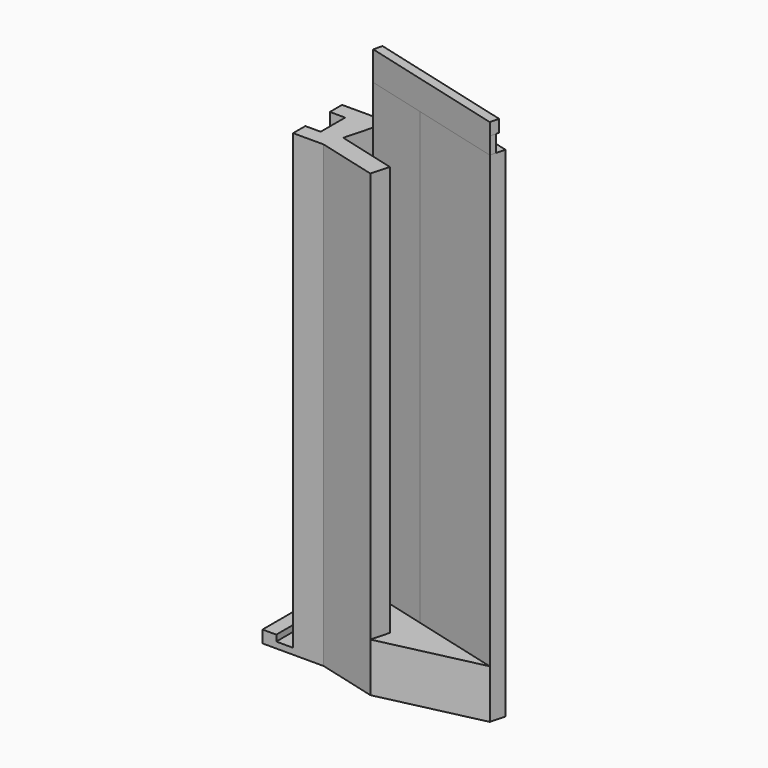
from build123d import *

# Parameters (mm, degrees)
F0_W      = 4.5
F0_H      = 20
F1_DEPTH  = 4
F2_W      = 5.5
F2_H      = 20
F3_DEPTH  = 2
F4_W      = 5
F4_H      = 5
F5_DEPTH  = 150
F6_W      = 5
F6_H      = 10
F7_DEPTH  = 10
F8_W      = 9.5
F8_H      = 16
F9_DEPTH  = 20
F10_W     = 15.690336
F10_H     = 16
F11_DEPTH = 30
F13_DEPTH = 16
F15_DEPTH = 5.5
F17_DEPTH = 4


with BuildPart() as f1:
    # F0 (on Top) → F1 (new body)
    with BuildSketch(Plane.XY):
        with Locations((2.25, 10)):
            Rectangle(F0_W, F0_H)
    extrude(amount=F1_DEPTH)

    # F2 (on Top) → F3 (join)
    with BuildSketch(Plane.XY):
        with Locations((7.25, 10)):
            Rectangle(F2_W, F2_H)
    extrude(amount=F3_DEPTH)

    # F4 (on Top) → F5 (join)
    with BuildSketch(Plane.XY):
        with Locations((12.5, 17.5)):
            Rectangle(F4_W, F4_H)
        Polygon((20, 20), (15, 20), (15, 15), (15, 5), (15, 0), (20, 0), align=None)
        Polygon((25.3, 20), (20, 20), (20, 0), align=None)
        with Locations((12.5, 2.5)):
            Rectangle(F4_W, F4_H)
    extrude(amount=F5_DEPTH)

    # F6 (on Top) → F7 (join)
    with BuildSketch(Plane.XY):
        with Locations((12.5, 10)):
            Rectangle(F6_W, F6_H)
    extrude(amount=F7_DEPTH)

    # F8 (on face) → F9 (join)
    with BuildSketch(Plane(origin=(18.687659, -4.95223, 0), x_dir=(0.256158, 0.966635, 0), z_dir=(0.966635, -0.256158, 0))):
        with Locations((16.063501, 8)):
            Rectangle(F8_W, F8_H)
        Polygon((20.813501, 16), (20.813501, 0), (25.813501, 0), (25.813501, 163), (20.813501, 163), align=None)
        Polygon((5.123165, 0), (11.313501, 0), (11.313501, 16), (11.313501, 150), (5.123165, 150), align=None)
    extrude(amount=F9_DEPTH)

    # F10 (on face) → F11 (join)
    with BuildSketch(Plane(origin=(38.020356, -10.075394, 0), x_dir=(0.256158, 0.966635, 0), z_dir=(0.966635, -0.256158, 0))):
        Polygon((25.813501, 0), (25.813501, 163), (20.813501, 163), (20.813501, 16), (20.813501, 0), align=None)
        with Locations((12.968333, 8)):
            Rectangle(F10_W, F10_H)
    extrude(amount=F11_DEPTH)

    # F12 (on face) → F13 (cut)
    with BuildSketch(Plane.XY.offset(16)):
        Polygon((72.350952, 2.358914), (39.332697, -5.123165), (68.331743, -12.807912), align=None)
    extrude(amount=-F13_DEPTH, mode=Mode.SUBTRACT)

    # F14 (on face) → F15 (join)
    with BuildSketch(Plane.XY.offset(163)):
        Polygon((24.531525, 17.100095), (24.019209, 15.166826), (72.350952, 2.358914), (72.863268, 4.292183), align=None)
    extrude(amount=F15_DEPTH)

    # F16 (on face) → F17 (join)
    with BuildSketch(Plane.XY.offset(168.5)):
        Polygon((24.787684, 18.06673), (24.019209, 15.166826), (72.350952, 2.358914), (73.119427, 5.258818), align=None)
    extrude(amount=F17_DEPTH)


solid = f1.part
